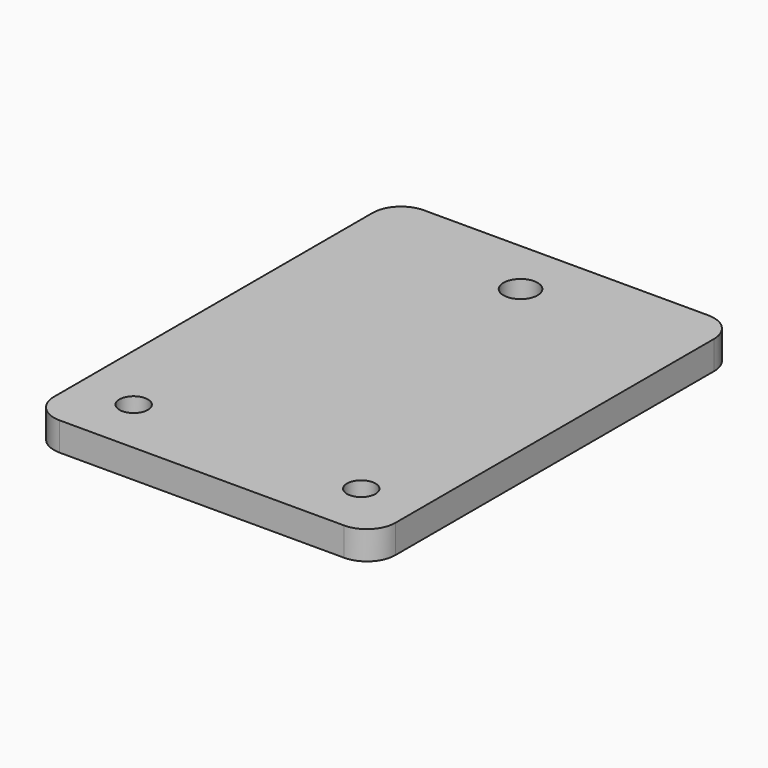
from build123d import *

# Parameters (mm, degrees)
F0_W     = 60
F0_H     = 80
F0_R     = 2.5
F0_R_2   = 3
F1_DEPTH = 5
F2_R     = 5


with BuildPart() as f1:
    # F0 (on Top) → F1 (new body)
    with BuildSketch(Plane.XY):
        with Locations((30, 40)):
            Rectangle(F0_W, F0_H)
        with Locations((10, 10)):
            Circle(F0_R, mode=Mode.SUBTRACT)
        with Locations((50, 10)):
            Circle(F0_R, mode=Mode.SUBTRACT)
        with Locations((30, 70)):
            Circle(F0_R_2, mode=Mode.SUBTRACT)
    extrude(amount=F1_DEPTH)

    # F2
    f2_edges = [f1.edges().sort_by_distance(p)[0] for p in [
        (60, 80, 2.5),
        (0, 80, 2.5),
        (0, 0, 2.5),
        (60, 0, 2.5),
    ]]
    fillet(f2_edges, radius=F2_R)


solid = f1.part
